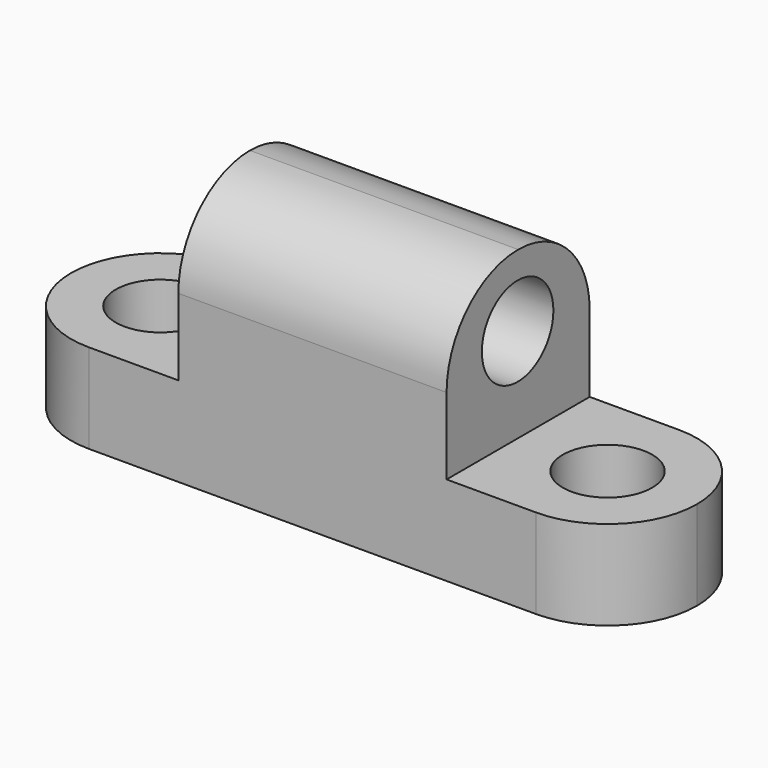
from build123d import *

# Parameters (mm, degrees)
F1_DEPTH  = 25.4
F3_DEPTH  = 25.4
F5_DEPTH  = 25.4
F6_R      = 6.35
F7_DEPTH  = 25.4
F8_R      = 6.35
F9_DEPTH  = 25.4
F10_R     = 6.35
F11_DEPTH = 38.1
F13_DEPTH = 38.1


with BuildPart() as f1:
    # F0 (on Front) → F1 (new body)
    with BuildSketch(Plane.XZ):
        Polygon((-50.9347495013, 12.7), (-50.9347495013, 0), (37.9652504987, 0), (37.9652504987, 12.7), (12.5652504987, 12.7), (12.5652504987, 36.2809036063), (-25.5347495013, 36.2809036063), (-25.5347495013, 12.7), align=None)
    extrude(amount=F1_DEPTH)

    # F2 (on face) → F3 (cut)
    with BuildSketch(Plane.XY.offset(12.7)):
        with BuildLine():
            ThreePointArc((-50.9347495013, -12.7), (-47.2150056224, -3.7197438789), (-38.2347495013, 0))
            Line((-38.2347495013, 0), (-50.9347495013, 0))
            Line((-50.9347495013, 0), (-50.9347495013, -12.7))
        make_face()
        with BuildLine():
            Line((-50.9347495013, -25.4), (-38.2347495013, -25.4))
            ThreePointArc((-38.2347495013, -25.4), (-47.2150056224, -21.6802561211), (-50.9347495013, -12.7))
            Line((-50.9347495013, -12.7), (-50.9347495013, -25.4))
        make_face()
    extrude(amount=-F3_DEPTH, mode=Mode.SUBTRACT)

    # F4 (on face) → F5 (cut)
    with BuildSketch(Plane.XY.offset(12.7)):
        with BuildLine():
            ThreePointArc((25.2652504987, 0), (34.2455066198, -3.7197438789), (37.9652504987, -12.7))
            Line((37.9652504987, -12.7), (37.9652504987, 0))
            Line((37.9652504987, 0), (25.2652504987, 0))
        make_face()
        with BuildLine():
            Line((37.9652504987, -25.4), (37.9652504987, -12.7))
            ThreePointArc((37.9652504987, -12.7), (34.2455066198, -21.6802561211), (25.2652504987, -25.4))
            Line((25.2652504987, -25.4), (37.9652504987, -25.4))
        make_face()
    extrude(amount=-F5_DEPTH, mode=Mode.SUBTRACT)

    # F6 (on face) → F7 (cut)
    with BuildSketch(Plane.XY.offset(12.7)):
        with Locations((-38.2347495013, -12.7)):
            Circle(F6_R)
    extrude(amount=-F7_DEPTH, mode=Mode.SUBTRACT)

    # F8 (on face) → F9 (cut)
    with BuildSketch(Plane.XY.offset(12.7)):
        with Locations((25.2652504987, -12.7)):
            Circle(F8_R)
    extrude(amount=-F9_DEPTH, mode=Mode.SUBTRACT)

    # F10 (on face) → F11 (cut)
    with BuildSketch(Plane.YZ.offset(12.5652504987)):
        with Locations((-12.7911586314, 26.1209036063)):
            Circle(F10_R)
    extrude(amount=-F11_DEPTH, mode=Mode.SUBTRACT)

    # F12 (on face) → F13 (cut)
    with BuildSketch(Plane.YZ.offset(12.5652504987)):
        with BuildLine():
            ThreePointArc((-25.4, 23.5809036063), (-21.6802561211, 32.5611597274), (-12.7, 36.2809036063))
            Line((-12.7, 36.2809036063), (-25.4, 36.2809036063))
            Line((-25.4, 36.2809036063), (-25.4, 23.5809036063))
        make_face()
        with BuildLine():
            ThreePointArc((-12.7, 36.2809036063), (-3.7197438789, 32.5611597274), (0, 23.5809036063))
            Line((0, 23.5809036063), (0, 36.2809036063))
            Line((0, 36.2809036063), (-12.7, 36.2809036063))
        make_face()
    extrude(amount=-F13_DEPTH, mode=Mode.SUBTRACT)


solid = f1.part
